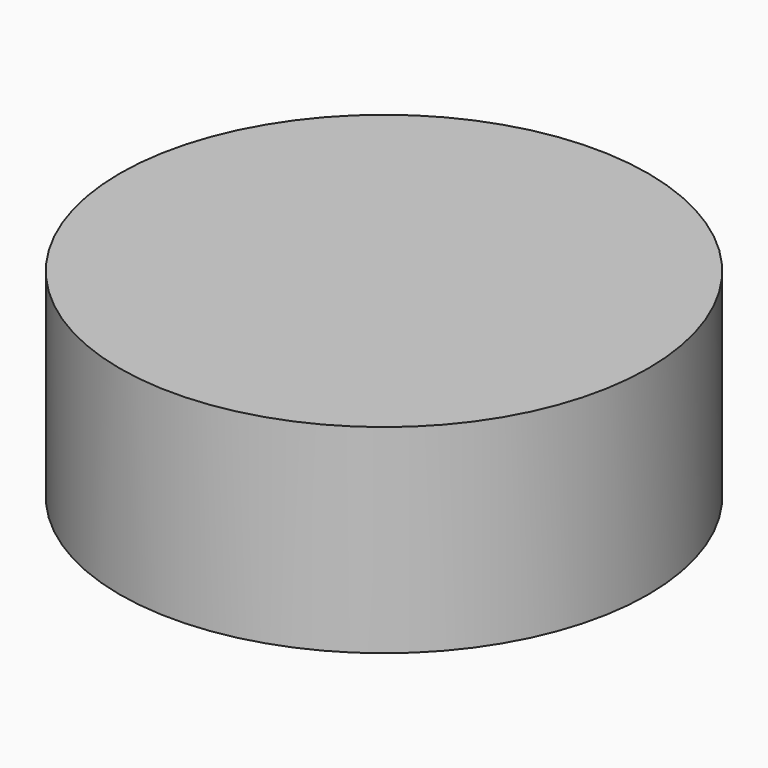
from build123d import *

# Parameters (mm, degrees)
CYLINDER_R     = 19.9009
CYLINDER_DEPTH = 15


with BuildPart() as part:
    # Cylinder → Cylinder (new body)
    with BuildSketch(Plane.XY.offset(-2.5)):
        Circle(CYLINDER_R)
    extrude(amount=CYLINDER_DEPTH)


solid = part.part
